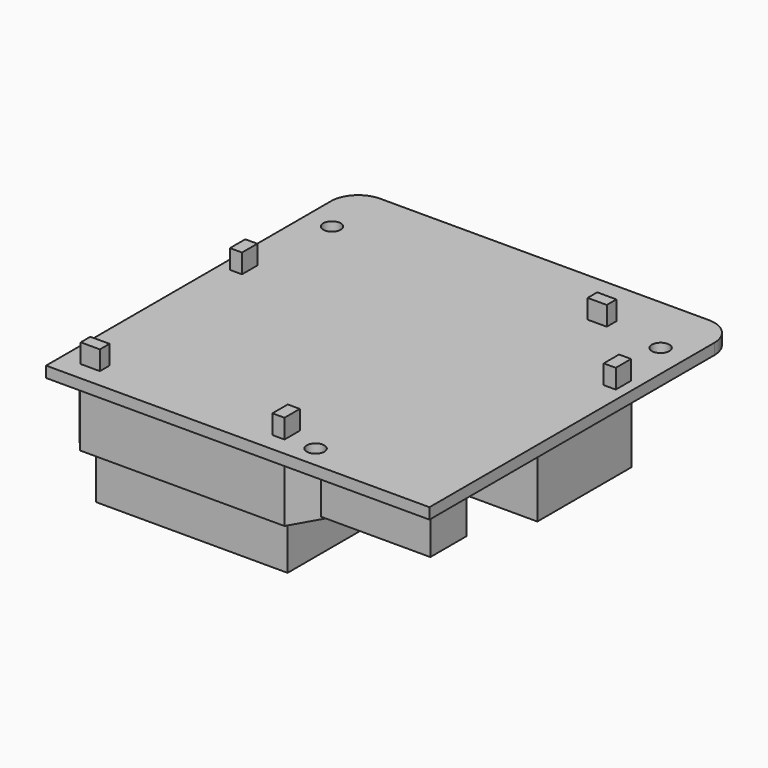
from build123d import *

# Parameters (mm, degrees)
F0_R     = 1.6
F0_W     = 20
F0_H     = 8.2
F0_W_2   = 2.2
F0_H_2   = 3.5
F0_W_3   = 3.5
F0_H_3   = 2.1957031846
F1_DEPTH = 2
F0_W_4   = 1.2657215719
F0_H_4   = 1.6254235071
F0_W_5   = 2.1951658177
F0_H_5   = 0.3664782417
F2_DEPTH = 13.9
F3_DEPTH = 8.6
F4_DEPTH = 22.5
F5_R     = 3
F6_DEPTH = 10.2
F7_SIZE2 = 2.0606080646
F7_SIZE  = 0.75
F8_DEPTH = 3.5


with BuildPart() as f1:
    # F0 (on Top) → F1 (new body)
    with BuildSketch(Plane.XY):
        with BuildLine():
            ThreePointArc((35, 30), (33.5355339059, 33.5355339059), (30, 35))
            Line((30, 35), (-30, 35))
            ThreePointArc((-30, 35), (-33.5355339059, 33.5355339059), (-35, 30))
            Line((-35, 30), (-35, -35))
            Line((-35, -35), (35, -35))
            Line((35, -35), (35, 30))
        make_face()
        with Locations((11, -31)):
            Circle(F0_R, mode=Mode.SUBTRACT)
        with Locations((24.4, -29.95)):
            Rectangle(F0_W, F0_H, mode=Mode.SUBTRACT)
        Polygon((-26.2, 20.8), (-26.2, 26.5), (16.4288448244, 26.5), (16.4288448244, 26.5042968154), (19.9288448244, 26.5042968154), (19.9288448244, 26.5), (20, 26.5), (33.1, 13.5), (33.1, -8), (19.3, -8), (5.8042784281, -31.5925206738), (5.8042784281, -31.5945764929), (5.8031024299, -31.5945764929), (5.8, -31.6), (-31.5, -31.6), (-33.1, -29.7), (-33.1, 19.6), (-28.7, 19.6), align=None, mode=Mode.SUBTRACT)
        with Locations((-30, 24)):
            Circle(F0_R, mode=Mode.SUBTRACT)
        with Locations((30, 24)):
            Circle(F0_R, mode=Mode.SUBTRACT)
        Polygon((16.4288448244, 26.5), (-26.2, 26.5), (-26.2, 20.8), (-28.7, 19.6), (-33.1, 19.6), (-33.1, -29.7), (-31.5, -31.6), (5.8, -31.6), (5.8031024299, -31.5945764929), (3.6042784281, -31.5945764929), (3.6042784281, -29.72), (-27.9348341823, -29.72), (-27.9348341823, -31.5535217583), (-31.4348341823, -31.5535217583), (-31.4348341823, -29.3535217583), (-30.13, -29.3535217583), (-30.13, 5.28), (4.87, 5.28), (4.87, -28.0945764929), (5.8042784281, -28.0945764929), (5.8042784281, -31.5925206738), (19.3, -8), (33.1, -8), (33.1, 13.5), (20, 26.5), (19.9288448244, 26.5), (19.9288448244, 24.3042968154), (16.4288448244, 24.3042968154), align=None)
        with Locations((-31.891271472, 6.2)):
            Rectangle(F0_W_2, F0_H_2, mode=Mode.SUBTRACT)
        with Locations((31.9520607591, 11.7002176121)):
            Rectangle(F0_W_2, F0_H_2, mode=Mode.SUBTRACT)
        Polygon((3.6042784281, -28.0945764929), (4.87, -28.0945764929), (4.87, 5.28), (-30.13, 5.28), (-30.13, -29.3535217583), (-27.9348341823, -29.3535217583), (-27.9348341823, -29.72), (3.6042784281, -29.72), align=None)
        with Locations((24.4, -29.95)):
            Rectangle(F0_W, F0_H)
        with Locations((31.9520607591, 11.7002176121)):
            Rectangle(F0_W_2, F0_H_2)
        with Locations((18.1788448244, 25.4021484077)):
            Rectangle(F0_W_3, F0_H_3)
        Polygon((5.8031024299, -31.5945764929), (5.8042784281, -31.5925206738), (5.8042784281, -28.0945764929), (4.87, -28.0945764929), (4.87, -29.72), (3.6042784281, -29.72), (3.6042784281, -31.5945764929), align=None)
        Polygon((-27.9348341823, -31.5535217583), (-27.9348341823, -29.72), (-30.13, -29.72), (-30.13, -29.3535217583), (-31.4348341823, -29.3535217583), (-31.4348341823, -31.5535217583), align=None)
        with Locations((-31.891271472, 6.2)):
            Rectangle(F0_W_2, F0_H_2)
    extrude(amount=-F1_DEPTH)

    # F0 (on Top) → F2 (join)
    with BuildSketch(Plane.XY):
        Polygon((16.4288448244, 26.5), (-26.2, 26.5), (-26.2, 20.8), (-28.7, 19.6), (-33.1, 19.6), (-33.1, -29.7), (-31.5, -31.6), (5.8, -31.6), (5.8031024299, -31.5945764929), (3.6042784281, -31.5945764929), (3.6042784281, -29.72), (-27.9348341823, -29.72), (-27.9348341823, -31.5535217583), (-31.4348341823, -31.5535217583), (-31.4348341823, -29.3535217583), (-30.13, -29.3535217583), (-30.13, 5.28), (4.87, 5.28), (4.87, -28.0945764929), (5.8042784281, -28.0945764929), (5.8042784281, -31.5925206738), (19.3, -8), (33.1, -8), (33.1, 13.5), (20, 26.5), (19.9288448244, 26.5), (19.9288448244, 24.3042968154), (16.4288448244, 24.3042968154), align=None)
        with Locations((-31.891271472, 6.2)):
            Rectangle(F0_W_2, F0_H_2, mode=Mode.SUBTRACT)
        with Locations((31.9520607591, 11.7002176121)):
            Rectangle(F0_W_2, F0_H_2, mode=Mode.SUBTRACT)
        Polygon((3.6042784281, -28.0945764929), (4.87, -28.0945764929), (4.87, 5.28), (-30.13, 5.28), (-30.13, -29.3535217583), (-27.9348341823, -29.3535217583), (-27.9348341823, -29.72), (3.6042784281, -29.72), align=None)
        Polygon((5.8031024299, -31.5945764929), (5.8042784281, -31.5925206738), (5.8042784281, -28.0945764929), (4.87, -28.0945764929), (4.87, -29.72), (3.6042784281, -29.72), (3.6042784281, -31.5945764929), align=None)
        with Locations((-31.891271472, 6.2)):
            Rectangle(F0_W_2, F0_H_2)
        with Locations((18.1788448244, 25.4021484077)):
            Rectangle(F0_W_3, F0_H_3)
        with Locations((31.9520607591, 11.7002176121)):
            Rectangle(F0_W_2, F0_H_2)
        with Locations((4.2371392141, -28.9072882465)):
            Rectangle(F0_W_4, F0_H_4)
        Polygon((-27.9348341823, -31.5535217583), (-27.9348341823, -29.72), (-30.13, -29.72), (-30.13, -29.3535217583), (-31.4348341823, -29.3535217583), (-31.4348341823, -31.5535217583), align=None)
        with Locations((-29.0324170911, -29.5367608792)):
            Rectangle(F0_W_5, F0_H_5)
    extrude(amount=-F2_DEPTH)

    # F0 (on Top) → F3 (join)
    with BuildSketch(Plane.XY):
        with Locations((24.4, -29.95)):
            Rectangle(F0_W, F0_H)
    extrude(amount=-F3_DEPTH)

    # F0 (on Top) → F4 (join)
    with BuildSketch(Plane.XY):
        Polygon((3.6042784281, -28.0945764929), (4.87, -28.0945764929), (4.87, 5.28), (-30.13, 5.28), (-30.13, -29.3535217583), (-27.9348341823, -29.3535217583), (-27.9348341823, -29.72), (3.6042784281, -29.72), align=None)
        with Locations((4.2371392141, -28.9072882465)):
            Rectangle(F0_W_4, F0_H_4)
        with Locations((-29.0324170911, -29.5367608792)):
            Rectangle(F0_W_5, F0_H_5)
    extrude(amount=-F4_DEPTH)

    # F5 (on face) → F6 (join)
    with BuildSketch(Plane(origin=(0, 26.5, 0), x_dir=(-1, 0, 0), z_dir=(0, 1, 0))):
        with Locations((-15.7, -6.8)):
            Circle(F5_R)
    extrude(amount=F6_DEPTH)

    # F7
    f7_edges = [f1.edges().sort_by_distance(p)[0] for p in [
        (18.7, 36.7, -6.8),
    ]]
    f7_side = f1.faces().sort_by_distance((15.7, 36.7, -6.8))[0]
    chamfer(f7_edges, length=F7_SIZE, length2=F7_SIZE2, reference=f7_side)

    # F0 (on Top) → F8 (join)
    with BuildSketch(Plane.XY):
        Polygon((-27.9348341823, -31.5535217583), (-27.9348341823, -29.72), (-30.13, -29.72), (-30.13, -29.3535217583), (-31.4348341823, -29.3535217583), (-31.4348341823, -31.5535217583), align=None)
        Polygon((5.8031024299, -31.5945764929), (5.8042784281, -31.5925206738), (5.8042784281, -28.0945764929), (4.87, -28.0945764929), (4.87, -29.72), (3.6042784281, -29.72), (3.6042784281, -31.5945764929), align=None)
        with Locations((4.2371392141, -28.9072882465)):
            Rectangle(F0_W_4, F0_H_4)
        with Locations((-29.0324170911, -29.5367608792)):
            Rectangle(F0_W_5, F0_H_5)
        with Locations((-31.891271472, 6.2)):
            Rectangle(F0_W_2, F0_H_2)
        with Locations((18.1788448244, 25.4021484077)):
            Rectangle(F0_W_3, F0_H_3)
        with Locations((31.9520607591, 11.7002176121)):
            Rectangle(F0_W_2, F0_H_2)
    extrude(amount=F8_DEPTH)


solid = f1.part
